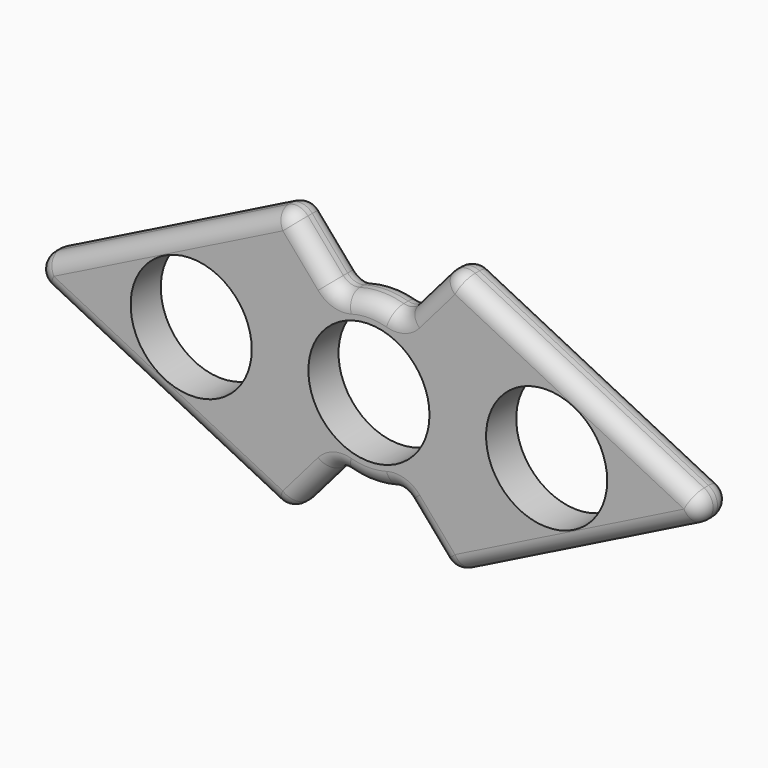
from build123d import *

# Parameters (mm, degrees)
F0_R     = 11.25
F1_DEPTH = 7
F2_R     = 3


with BuildPart() as f1:
    # F0 (on Front) → F1 (new body)
    with BuildSketch(Plane.XZ):
        with BuildLine():
            ThreePointArc((5.8359223436, -14.0891628708), (12.6799115876, -8.4724460535), (15.25, 0))
            ThreePointArc((15.25, 0), (12.6799115876, 8.4724460535), (5.8359223436, 14.0891628708))
            ThreePointArc((5.8359223436, 14.0891628708), (0, 15.25), (-5.8359223436, 14.0891628708))
            ThreePointArc((-5.8359223436, 14.0891628708), (-12.6799115876, 8.4724460535), (-15.25, 0))
            ThreePointArc((-15.25, 0), (-12.6799115876, -8.4724460535), (-5.8359223436, -14.0891628708))
            ThreePointArc((-5.8359223436, -14.0891628708), (0, -15.25), (5.8359223436, -14.0891628708))
        make_face()
        Circle(F0_R, mode=Mode.SUBTRACT)
        with BuildLine():
            Line((15.25, -25), (15.25, 0))
            ThreePointArc((15.25, 0), (12.6799115876, -8.4724460535), (5.8359223436, -14.0891628708))
            Line((5.8359223436, -14.0891628708), (15.25, -25))
        make_face()
        with BuildLine():
            ThreePointArc((5.8359223436, 14.0891628708), (12.6799115876, 8.4724460535), (15.25, 0))
            Line((15.25, 0), (15.25, 25))
            Line((15.25, 25), (5.8359223436, 14.0891628708))
        make_face()
        Polygon((15.25, 25), (15.25, 0), (15.25, -25), (65.25, 0), align=None)
        with Locations((33.02, 0)):
            Circle(F0_R, mode=Mode.SUBTRACT)
        with BuildLine():
            ThreePointArc((-15.25, 0), (-12.6799115876, 8.4724460535), (-5.8359223436, 14.0891628708))
            Line((-5.8359223436, 14.0891628708), (-15.25, 25))
            Line((-15.25, 25), (-15.25, 0))
        make_face()
        with BuildLine():
            Line((-15.25, -25), (-5.8359223436, -14.0891628708))
            ThreePointArc((-5.8359223436, -14.0891628708), (-12.6799115876, -8.4724460535), (-15.25, 0))
            Line((-15.25, 0), (-15.25, -25))
        make_face()
        Polygon((-15.25, -25), (-15.25, 0), (-15.25, 25), (-65.25, 0), align=None)
        with Locations((-33.02, 0)):
            Circle(F0_R, mode=Mode.SUBTRACT)
    extrude(amount=F1_DEPTH)

    # F2
    f2_edges = [f1.edges().sort_by_distance(p)[0] for p in [
        (-15.25, -3.5, -25),
        (-5.835922, -3.5, -14.089163),
        (-10.542961, 0, -19.544581),
        (-10.542961, -7, -19.544581),
        (5.835922, -3.5, -14.089163),
        (0, 0, -15.25),
        (0, -7, -15.25),
        (15.25, -3.5, -25),
        (10.542961, 0, -19.544581),
        (10.542961, -7, -19.544581),
        (-65.25, -3.5, 0),
        (-40.25, 0, -12.5),
        (-40.25, -7, -12.5),
        (65.25, -3.5, 0),
        (40.25, 0, -12.5),
        (40.25, -7, -12.5),
        (15.25, -3.5, 25),
        (40.25, 0, 12.5),
        (40.25, -7, 12.5),
        (5.835922, -3.5, 14.089163),
        (10.542961, 0, 19.544581),
        (10.542961, -7, 19.544581),
        (-5.835922, -3.5, 14.089163),
        (0, 0, 15.25),
        (0, -7, 15.25),
        (-15.25, -3.5, 25),
        (-10.542961, 0, 19.544581),
        (-10.542961, -7, 19.544581),
        (-40.25, 0, 12.5),
        (-40.25, -7, 12.5),
    ]]
    fillet(f2_edges, radius=F2_R)


solid = f1.part
